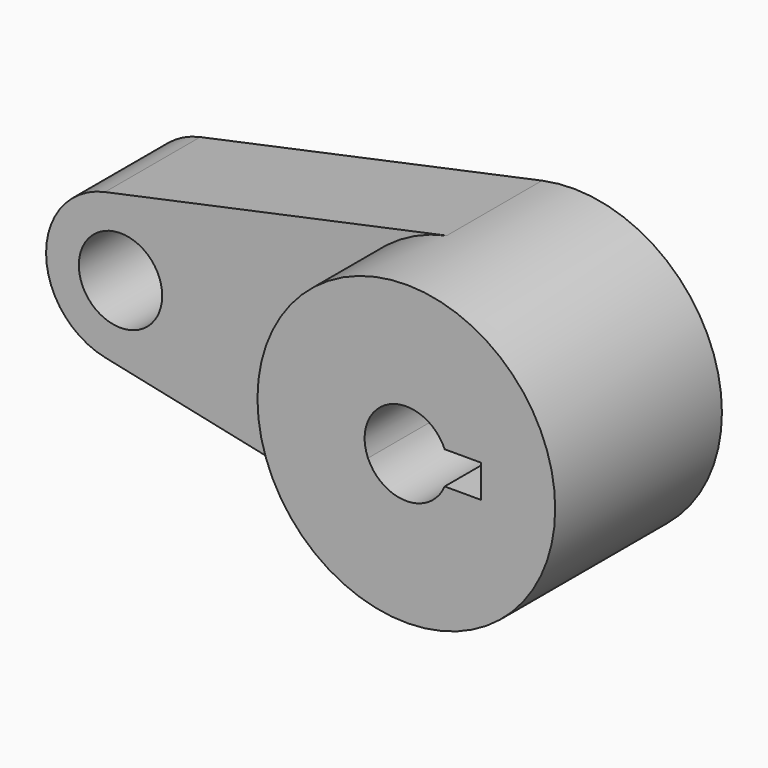
from build123d import *

# Parameters (mm, degrees)
F0_R     = 8.89
F1_DEPTH = 25.4
F2_DEPTH = 44.45


with BuildPart() as f1:
    # F0 (on Front) → F1 (new body)
    with BuildSketch(Plane.XZ):
        with BuildLine():
            ThreePointArc((-6.6145833333, -31.0533377808), (19.97560361, -24.6786904113), (31.75, 0))
            ThreePointArc((31.75, 0), (19.97560361, 24.6786904113), (-6.6145833333, 31.0533377808))
            ThreePointArc((-6.6145833333, 31.0533377808), (-31.75, 0), (-6.6145833333, -31.0533377808))
        make_face()
        with BuildLine():
            ThreePointArc((-8.1752396754, 3.4925), (0, 8.89), (8.1752396754, 3.4925))
            Line((8.1752396754, 3.4925), (15.875, 3.4925))
            Line((15.875, 3.4925), (15.875, -3.4925))
            Line((15.875, -3.4925), (8.1752396754, -3.4925))
            ThreePointArc((8.1752396754, -3.4925), (0, -8.89), (-8.1752396754, -3.4925))
            Line((-8.1752396754, -3.4925), (-15.875, -3.4925))
            Line((-15.875, -3.4925), (-15.875, 3.4925))
            Line((-15.875, 3.4925), (-8.1752396754, 3.4925))
        make_face(mode=Mode.SUBTRACT)
        with BuildLine():
            ThreePointArc((-6.6145833333, -31.0533377808), (-31.75, 0), (-6.6145833333, 31.0533377808))
            Line((-6.6145833333, 31.0533377808), (-79.5072916667, 15.5266688904))
            ThreePointArc((-79.5072916667, 15.5266688904), (-66.212198195, 12.3393452056), (-60.325, 0))
            ThreePointArc((-60.325, 0), (-66.212198195, -12.3393452056), (-79.5072916667, -15.5266688904))
            Line((-79.5072916667, -15.5266688904), (-6.6145833333, -31.0533377808))
        make_face()
        with BuildLine():
            ThreePointArc((-60.325, 0), (-66.212198195, 12.3393452056), (-79.5072916667, 15.5266688904))
            ThreePointArc((-79.5072916667, 15.5266688904), (-92.075, 0), (-79.5072916667, -15.5266688904))
            ThreePointArc((-79.5072916667, -15.5266688904), (-66.212198195, -12.3393452056), (-60.325, 0))
        make_face()
        with Locations((-76.2, 0)):
            Circle(F0_R, mode=Mode.SUBTRACT)
        with BuildLine():
            ThreePointArc((-8.1752396754, -3.4925), (-8.89, 0), (-8.1752396754, 3.4925))
            Line((-8.1752396754, 3.4925), (-15.875, 3.4925))
            Line((-15.875, 3.4925), (-15.875, -3.4925))
            Line((-15.875, -3.4925), (-8.1752396754, -3.4925))
        make_face()
    extrude(amount=F1_DEPTH)

    # F0 (on Front) → F2 (join)
    with BuildSketch(Plane.XZ):
        with BuildLine():
            ThreePointArc((-6.6145833333, -31.0533377808), (19.97560361, -24.6786904113), (31.75, 0))
            ThreePointArc((31.75, 0), (19.97560361, 24.6786904113), (-6.6145833333, 31.0533377808))
            ThreePointArc((-6.6145833333, 31.0533377808), (-31.75, 0), (-6.6145833333, -31.0533377808))
        make_face()
        with BuildLine():
            ThreePointArc((-8.1752396754, 3.4925), (0, 8.89), (8.1752396754, 3.4925))
            Line((8.1752396754, 3.4925), (15.875, 3.4925))
            Line((15.875, 3.4925), (15.875, -3.4925))
            Line((15.875, -3.4925), (8.1752396754, -3.4925))
            ThreePointArc((8.1752396754, -3.4925), (0, -8.89), (-8.1752396754, -3.4925))
            Line((-8.1752396754, -3.4925), (-15.875, -3.4925))
            Line((-15.875, -3.4925), (-15.875, 3.4925))
            Line((-15.875, 3.4925), (-8.1752396754, 3.4925))
        make_face(mode=Mode.SUBTRACT)
        with BuildLine():
            ThreePointArc((-8.1752396754, -3.4925), (-8.89, 0), (-8.1752396754, 3.4925))
            Line((-8.1752396754, 3.4925), (-15.875, 3.4925))
            Line((-15.875, 3.4925), (-15.875, -3.4925))
            Line((-15.875, -3.4925), (-8.1752396754, -3.4925))
        make_face()
    extrude(amount=F2_DEPTH)


solid = f1.part
